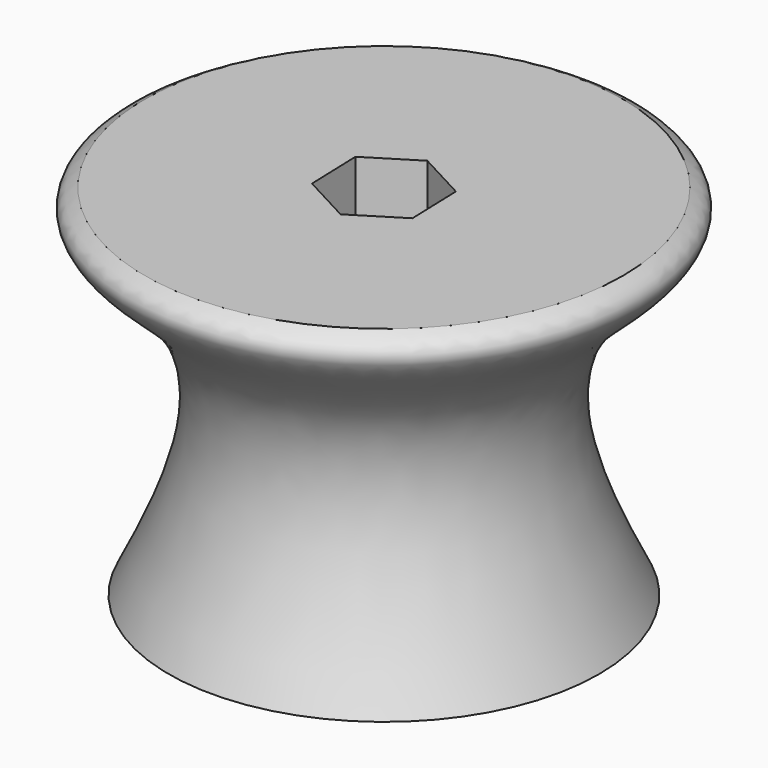
from build123d import *

# Parameters (mm, degrees)
F2_R          = 10
F3_DEPTH      = 2.2
F4_R          = 2.6
F5_DEPTH      = 27.8010001
F8_DEPTH      = 4
F8_DEPTH_BACK = 25


with BuildPart() as f1:
    # F0 (on Front) → F1 (revolve)
    with BuildSketch(Plane.XZ):
        with BuildLine():
            Line((0, 30), (0, 0))
            Line((0, 0), (18, 0))
            add(Edge.make_bspline(
                [(20, 30), (23.3665107807, 28.5300366312), (15.8290646793, 23.4868524752), (12.3142279703, 15.9642343157), (13.8468699499, 8.2686705737), (18, 0)],
                knots=[0, 0, 0, 0, 0.2654633996, 0.5684844846, 1, 1, 1, 1], degree=3))
            Line((20, 30), (0, 30))
        make_face()
    revolve(axis=Axis((0, 0, 15), (0, 0, -1)))

    # F2 (on face) → F3 (cut)
    with BuildSketch(Plane(origin=(0, 0, 0), x_dir=(1, 0, 0), z_dir=(0, 0, -1))):
        Circle(F2_R)
    extrude(amount=-F3_DEPTH, mode=Mode.SUBTRACT)

    # F4 (on face) → F5 (cut, through all)
    with BuildSketch(Plane(origin=(0, 0, 2.2), x_dir=(1, 0, 0), z_dir=(0, 0, -1))):
        Circle(F4_R)
    extrude(amount=-F5_DEPTH, mode=Mode.SUBTRACT)

    # F7 (on offset) → F8 (cut, two sides)
    with BuildSketch(Plane.XY.offset(13)) as f8_sk:
        Polygon((4.0216239956, 2.4979739332), (-0.1524968863, 4.7318155113), (-4.174120882, 2.2338415781), (-4.0216239956, -2.4979739332), (0.1524968863, -4.7318155113), (4.174120882, -2.2338415781), align=None)
    extrude(amount=-F8_DEPTH, mode=Mode.SUBTRACT)
    extrude(f8_sk.sketch, amount=F8_DEPTH_BACK, mode=Mode.SUBTRACT)


solid = f1.part
